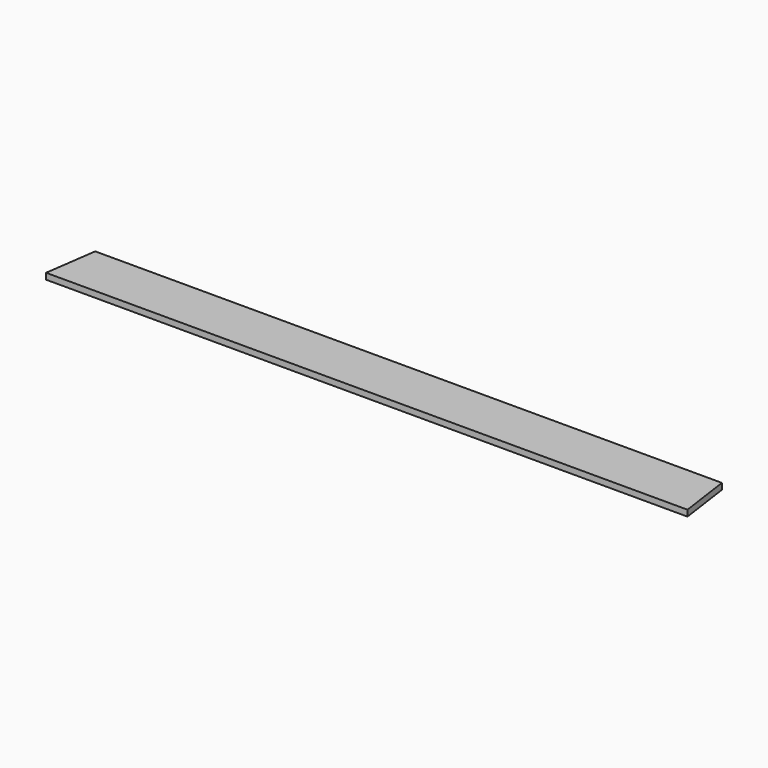
from build123d import *

# Parameters (mm, degrees)
PAD_DEPTH = 11.90625


with BuildPart() as part:
    # Sketch → Pad (new body)
    with BuildSketch(Plane.XY):
        Polygon((-609.6, 0), (609.6, 0), (623.878949, -101.6), (-623.878949, -101.6), align=None)
    extrude(amount=PAD_DEPTH)


solid = part.part
